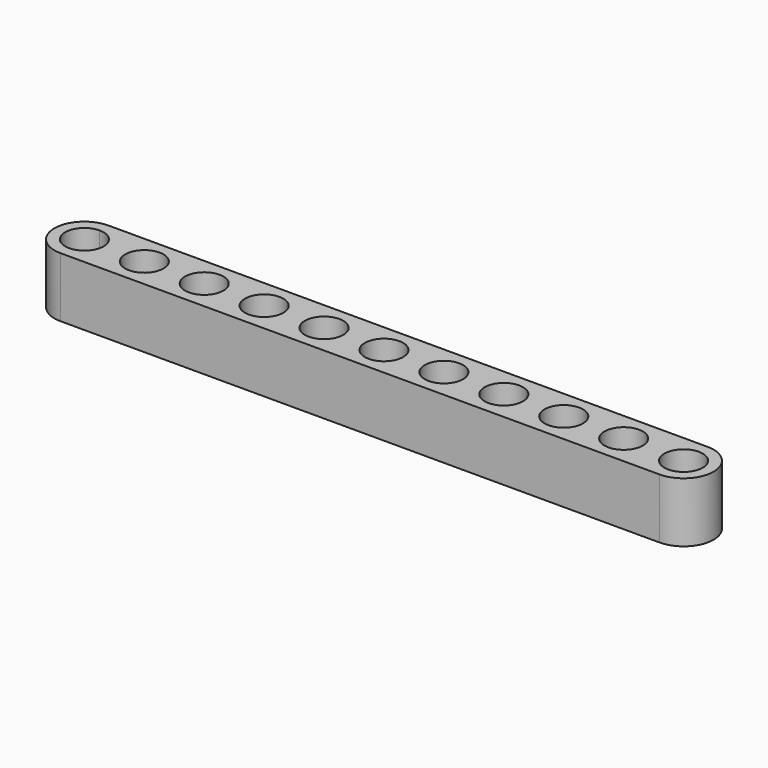
from build123d import *

# Parameters (mm, degrees)
F0_R     = 2.54
F1_DEPTH = 7.9375


with BuildPart() as f1:
    # F0 (on Top) → F1 (new body)
    with BuildSketch(Plane.XY):
        with BuildLine():
            Line((79.375, 0), (0, 0))
            Line((0, 0), (0, -1.42875))
            ThreePointArc((0, -1.42875), (1.796051, -2.172699), (2.54, -3.96875))
            ThreePointArc((2.54, -3.96875), (1.796051, -5.764801), (0, -6.50875))
            Line((0, -6.50875), (0, -7.9375))
            Line((0, -7.9375), (79.375, -7.9375))
            ThreePointArc((79.375, -7.9375), (83.34375, -3.96875), (79.375, 0))
        make_face()
        with Locations((7.9375, -3.96875)):
            Circle(F0_R, mode=Mode.SUBTRACT)
        with Locations((15.875, -3.96875)):
            Circle(F0_R, mode=Mode.SUBTRACT)
        with Locations((23.8125, -3.96875)):
            Circle(F0_R, mode=Mode.SUBTRACT)
        with Locations((31.75, -3.96875)):
            Circle(F0_R, mode=Mode.SUBTRACT)
        with Locations((39.6875, -3.96875)):
            Circle(F0_R, mode=Mode.SUBTRACT)
        with Locations((47.625, -3.96875)):
            Circle(F0_R, mode=Mode.SUBTRACT)
        with Locations((55.5625, -3.96875)):
            Circle(F0_R, mode=Mode.SUBTRACT)
        with Locations((63.5, -3.96875)):
            Circle(F0_R, mode=Mode.SUBTRACT)
        with Locations((71.4375, -3.96875)):
            Circle(F0_R, mode=Mode.SUBTRACT)
        with Locations((79.375, -3.96875)):
            Circle(F0_R, mode=Mode.SUBTRACT)
        with BuildLine():
            Line((0, -1.42875), (0, 0))
            ThreePointArc((0, 0), (-3.96875, -3.96875), (0, -7.9375))
            Line((0, -7.9375), (0, -6.50875))
            ThreePointArc((0, -6.50875), (-2.54, -3.96875), (0, -1.42875))
        make_face()
    extrude(amount=F1_DEPTH)


solid = f1.part
